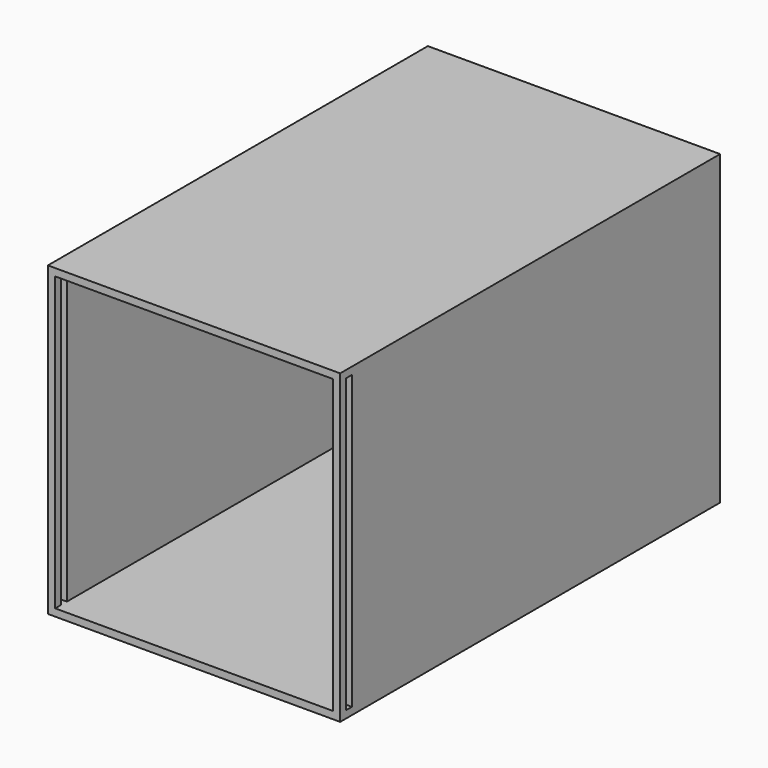
from build123d import *

# Parameters (mm, degrees)
F0_W     = 127
F0_H     = 127
F1_DEPTH = 3.175
F2_W     = 3.175
F2_H     = 127
F3_DEPTH = 203.2
F4_W     = 127
F4_H     = 206.375
F5_DEPTH = 3.175
F6_W     = 127
F6_H     = 206.375
F7_DEPTH = 3.175
F8_W     = 3.175
F8_H     = 127
F9_DEPTH = 127.001


with BuildPart() as f1:
    # F0 (on Front) → F1 (new body)
    with BuildSketch(Plane.XZ):
        Rectangle(F0_W, F0_H)
    extrude(amount=F1_DEPTH)

    # F2 (on face) → F3 (join)
    with BuildSketch(Plane.XZ.offset(3.175)):
        with Locations((-61.9125, 0)):
            Rectangle(F2_W, F2_H)
        with Locations((61.9125, 0)):
            Rectangle(F2_W, F2_H)
    extrude(amount=F3_DEPTH)

    # F4 (on face) → F5 (join)
    with BuildSketch(Plane.XY.offset(63.5)):
        with Locations((0, -103.1875)):
            Rectangle(F4_W, F4_H)
    extrude(amount=F5_DEPTH)

    # F6 (on face) → F7 (join)
    with BuildSketch(Plane(origin=(0, 0, -63.5), x_dir=(1, 0, 0), z_dir=(0, 0, -1))):
        with Locations((0, 103.1875)):
            Rectangle(F6_W, F6_H)
    extrude(amount=F7_DEPTH)

    # F8 (on face) → F9 (cut, through all)
    with BuildSketch(Plane.YZ.offset(63.5)):
        with Locations((-201.6125, 0)):
            Rectangle(F8_W, F8_H)
    extrude(amount=-F9_DEPTH, mode=Mode.SUBTRACT)


solid = f1.part
